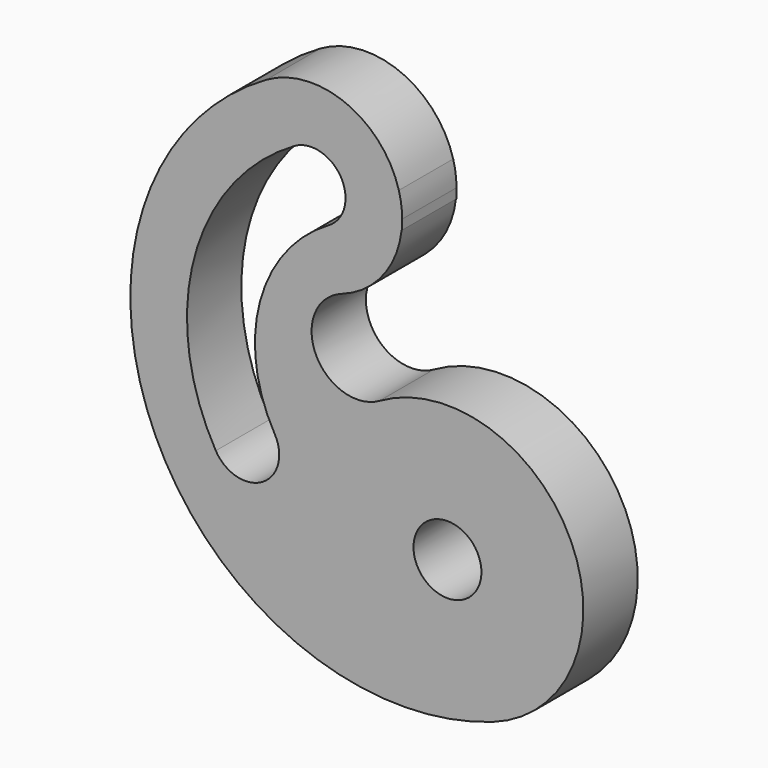
from build123d import *

# Parameters (mm, degrees)
F0_R     = 190.5
F1_DEPTH = 381


with BuildPart() as f1:
    # F0 (on Front) → F1 (new body)
    with BuildSketch(Plane.XZ):
        with BuildLine():
            ThreePointArc((-18.52905, 1015.831026), (-315.738775, 1350.094125), (-762, 1319.822715))
            ThreePointArc((-762, 1319.822715), (-1384.170395, -637.689829), (508, -1436.840979))
            ThreePointArc((508, -1436.840979), (946.085197, -399.575575), (-127, -58.509132))
            ThreePointArc((-127, -58.509132), (-484.695066, 55.179682), (-338.666667, 400.934817))
            ThreePointArc((-338.666667, 400.934817), (-109.538933, 564.774245), (-2.919752, 825.494836))
            ThreePointArc((-2.919752, 825.494836), (-0.730463, 852.649165), (0, 879.88181))
            ThreePointArc((0, 879.88181), (-4.653577, 948.484862), (-18.52905, 1015.831026))
        make_face()
        with Locations((254, -718.42049)):
            Circle(F0_R, mode=Mode.SUBTRACT)
        with BuildLine():
            ThreePointArc((-1044.85965, -603.25), (-1165.389509, 312.265178), (-603.25, 1044.85965))
            ThreePointArc((-603.25, 1044.85965), (-343.022161, 975.13181), (-412.75, 714.903971))
            ThreePointArc((-412.75, 714.903971), (-797.37177, 213.655122), (-714.903971, -412.75))
            ThreePointArc((-714.903971, -412.75), (-784.63181, -672.977839), (-1044.85965, -603.25))
        make_face(mode=Mode.SUBTRACT)
        with BuildLine():
            Line((0, 825.5), (0, 879.88181))
            ThreePointArc((0, 879.88181), (-0.730463, 852.649165), (-2.919752, 825.494836))
            ThreePointArc((-2.919752, 825.494836), (-1.459878, 825.498709), (0, 825.5))
        make_face()
    extrude(amount=F1_DEPTH)


solid = f1.part
